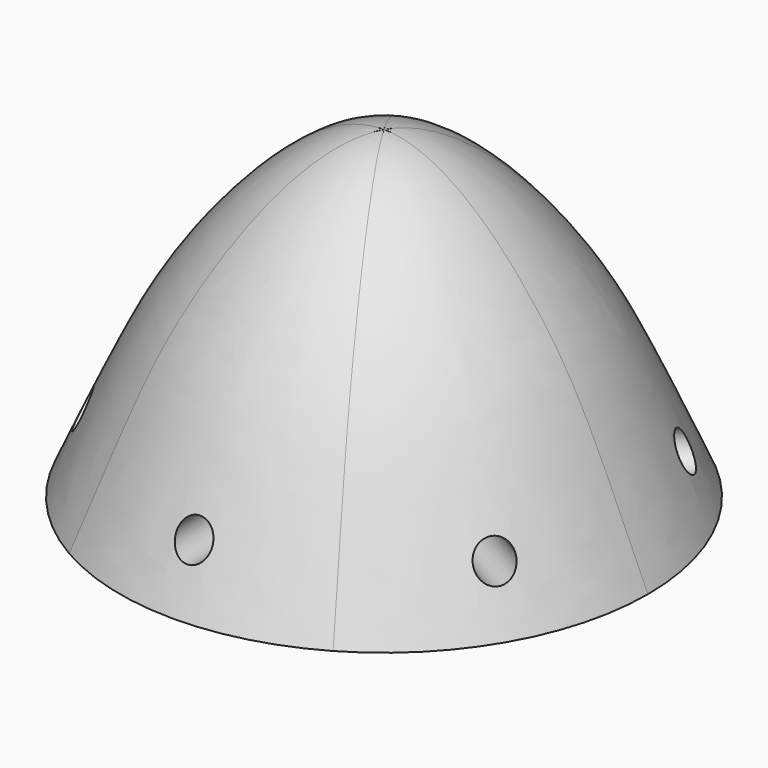
from build123d import *

# Parameters (mm, degrees)
F2_SCALE  = 1.7860860832
F3_SCALE  = 1.2857142857
F5_DEPTH  = 127
F7_R      = 1.9685
F8_DEPTH  = 25.4
F10_COUNT = 6
F12_R     = 3.556
F13_DEPTH = 20.32


with BuildPart() as f1:
    # F0 (on Front) → F1 (revolve)
    with BuildSketch(Plane.XZ):
        with BuildLine():
            add(Edge.make_bspline(
                [(-12.4434078933, -0.2857490592), (-11.6801978814, 1.4455605736), (-10.132303464, 4.9568935924), (-7.6665859487, 9.8852568378), (-2.720582136, 14.9542509408), (0, 14.9542509408)],
                knots=[0, 0, 0, 0, 0.1522053216, 0.308693235, 0.5, 0.5, 0.5, 0.5], degree=3))
            Line((-12.4434078933, -0.2857490592), (0, -0.2857490592))
            Line((0, -0.2857490592), (0, 14.9542509408))
        make_face()
    revolve(axis=Axis((0, 0, 7.3342509408), (0, 0, 1)))


with BuildPart() as f1_1:
    # F2: moved
    add(f1.part.scale(F2_SCALE))


with BuildPart() as f1_2:
    # F3: moved
    add(f1_1.part.scale(F3_SCALE))

    # F4 (on face) → F5 (cut)
    with BuildSketch(Plane(origin=(0, 0, -0.6561931088), x_dir=(1, 0, 0), z_dir=(0, 0, -1))):
        with BuildLine():
            Line((14.2874984997, 24.7466733145), (0, 0))
            Line((0, 0), (-14.2874984997, 24.7466733145))
            ThreePointArc((-14.2874984997, 24.7466733145), (-14.2874984997, -24.7466733145), (28.5749969994, 0))
            ThreePointArc((28.5749969994, 0), (24.7466733145, 14.2874984997), (14.2874984997, 24.7466733145))
        make_face()
    extrude(amount=-F5_DEPTH, mode=Mode.SUBTRACT)

    # F7 (on offset) → F8 (cut)
    with BuildSketch(Plane.XZ.offset(38.1)):
        with Locations((0, 5.6938068912)):
            Circle(F7_R)
    extrude(amount=-F8_DEPTH, mode=Mode.SUBTRACT)


with BuildPart() as f10_1:
    # F10: instance of F1
    add(f1_2.part.rotate(Axis((0, 0, 23.0994801968), (0, 0, 1)), 1 * 360 / F10_COUNT))


with BuildPart() as f10_2:
    # F10: instance of F1
    add(f1_2.part.rotate(Axis((0, 0, 23.0994801968), (0, 0, 1)), 2 * 360 / F10_COUNT))


with BuildPart() as f10_3:
    # F10: instance of F1
    add(f1_2.part.rotate(Axis((0, 0, 23.0994801968), (0, 0, 1)), 3 * 360 / F10_COUNT))


with BuildPart() as f10_4:
    # F10: instance of F1
    add(f1_2.part.rotate(Axis((0, 0, 23.0994801968), (0, 0, 1)), 4 * 360 / F10_COUNT))


with BuildPart() as f10_5:
    # F10: instance of F1
    add(f1_2.part.rotate(Axis((0, 0, 23.0994801968), (0, 0, 1)), 5 * 360 / F10_COUNT))


with BuildPart() as f1_3:
    add(f1_2.part)

    # F11: union F10_2, F10_1, F10_5, F10_3, F10_4
    add(f10_2.part)
    add(f10_1.part)
    add(f10_5.part)
    add(f10_3.part)
    add(f10_4.part)

    # F12 (on face) → F13 (cut)
    with BuildSketch(Plane(origin=(0, 0, -0.6561931088), x_dir=(1, 0, 0), z_dir=(0, 0, -1))):
        Circle(F12_R)
    extrude(amount=-F13_DEPTH, mode=Mode.SUBTRACT)


solid = f1_3.part
